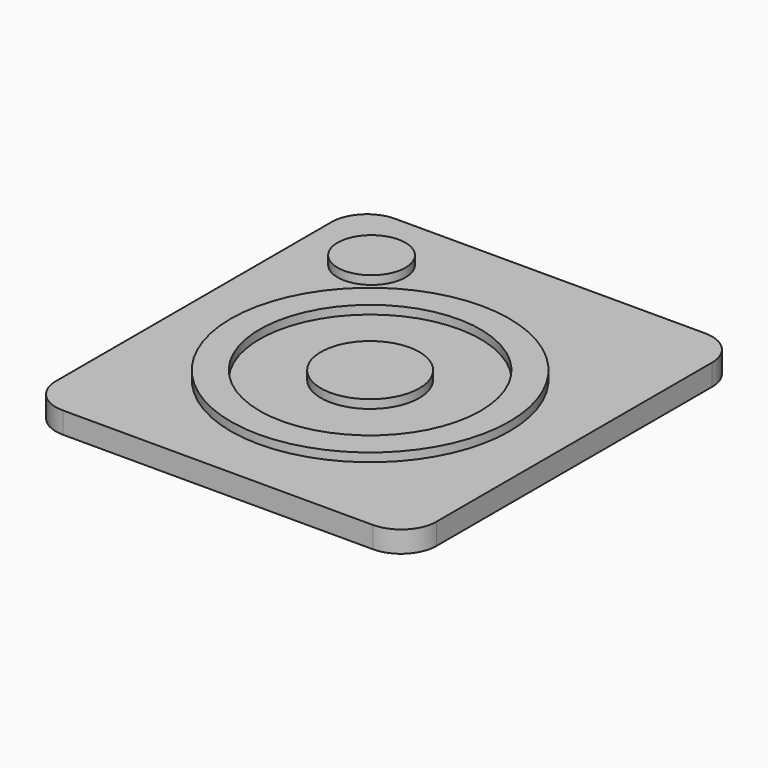
from build123d import *

# Parameters (mm, degrees)
PAD_DEPTH     = 5
SKETCH001_R   = 7.925
SKETCH001_R_2 = 32.55
SKETCH001_R_3 = 25.8
SKETCH001_R_4 = 11.5
PAD001_DEPTH  = 2


with BuildPart() as part:
    # Sketch → Pad (new body)
    with BuildSketch(Plane.XY):
        with BuildLine():
            ThreePointArc((0, 8.25), (2.416369, 2.416369), (8.25, 0))
            Line((80.65, 0), (8.25, 0))
            ThreePointArc((80.65, 0), (86.483631, 2.416369), (88.9, 8.25))
            Line((88.9, 88.75), (88.9, 8.25))
            ThreePointArc((88.9, 88.75), (86.483631, 94.583631), (80.65, 97))
            Line((8.25, 97), (80.65, 97))
            ThreePointArc((8.25, 97), (2.416369, 94.583631), (0, 88.75))
            Line((0, 8.25), (0, 88.75))
        make_face()
    extrude(amount=PAD_DEPTH)

    # Sketch001 (on Face10 of Pad) → Pad001 (join)
    with BuildSketch(Plane.XY.offset(5)):
        with Locations((16.275, 80.075)):
            Circle(SKETCH001_R)
        with Locations((44.45, 44.45)):
            Circle(SKETCH001_R_2)
        with Locations((44.45, 44.45)):
            Circle(SKETCH001_R_3, mode=Mode.SUBTRACT)
        with Locations((44.45, 44.45)):
            Circle(SKETCH001_R_4)
    extrude(amount=PAD001_DEPTH)


solid = part.part
